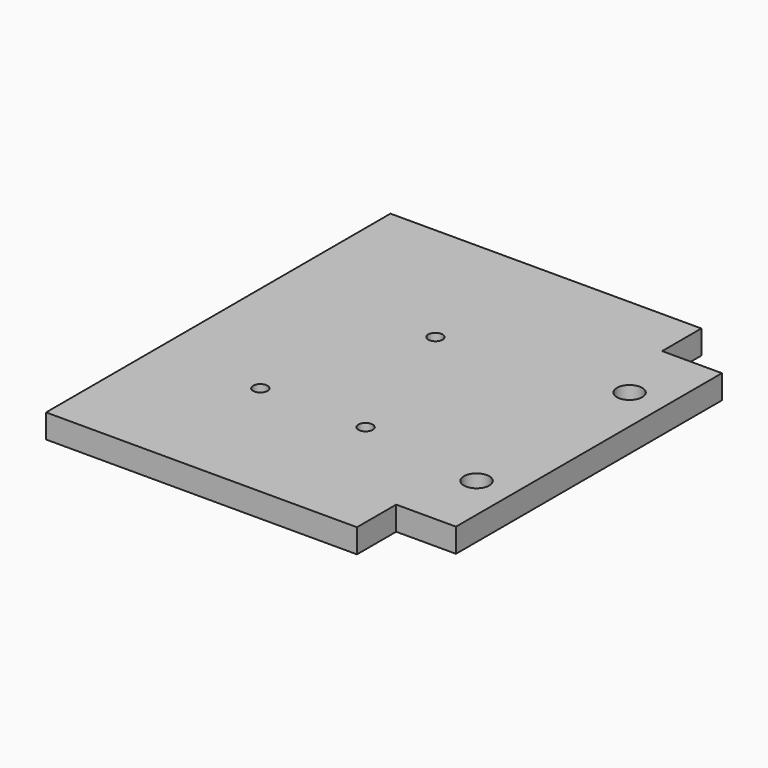
from build123d import *

# Parameters (mm, degrees)
PAD_DEPTH       = 5
SKETCH001_R     = 2.65
POCKET_DEPTH    = 5
SKETCH002_R     = 1.5
POCKET001_DEPTH = 5


with BuildPart() as part:
    # Sketch → Pad (new body)
    with BuildSketch(Plane.XY):
        Polygon((38.75, 34.75), (38.75, -34.75), (26.25, -34.75), (26.25, -45), (-38.75, -45), (-38.75, 45), (26.25, 45), (26.25, 34.75), align=None)
    extrude(amount=PAD_DEPTH)

    # Sketch001 (on Face10 of Pad) → Pocket (cut)
    with BuildSketch(Plane.XY.offset(5)):
        with Locations((31.25, 20)):
            Circle(SKETCH001_R)
        with Locations((31.25, -20)):
            Circle(SKETCH001_R)
    extrude(amount=-POCKET_DEPTH, mode=Mode.SUBTRACT)

    # Sketch002 (on Face5 of Pocket) → Pocket001 (cut)
    with BuildSketch(Plane.XY.offset(5)):
        with Locations((5.25, -16.5)):
            Circle(SKETCH002_R)
        with Locations((-16.75, -16.5)):
            Circle(SKETCH002_R)
        with Locations((-5.75, 15.5)):
            Circle(SKETCH002_R)
    extrude(amount=-POCKET001_DEPTH, mode=Mode.SUBTRACT)


solid = part.part
